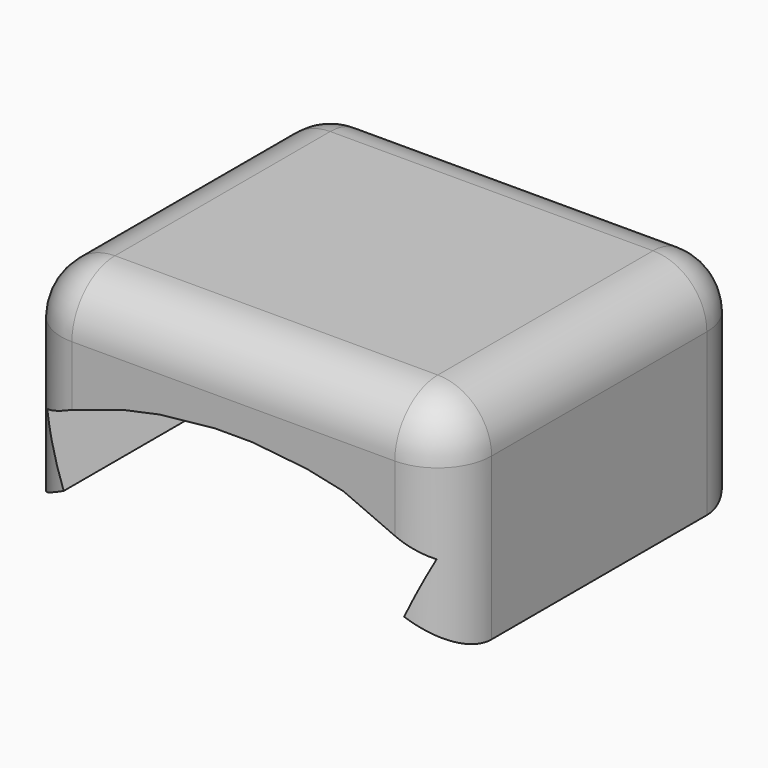
from build123d import *

# Parameters (mm, degrees)
F1_DEPTH = 7
F2_R     = 1


with BuildPart() as f1:
    # F0 (on Front) → F1 (new body)
    with BuildSketch(Plane.XZ):
        with BuildLine():
            ThreePointArc((3.163336, 6.244462), (3.590379, 6.009091), (4, 5.744563))
            Line((4, 5.744563), (4, 9.744563))
            Line((4, 9.744563), (-4, 9.744563))
            Line((-4, 9.744563), (-4, 5.744563))
            ThreePointArc((-4, 5.744563), (-3.590379, 6.009091), (-3.163336, 6.244462))
            Line((-3.163336, 6.244462), (-3.65142, 7.340716))
            Line((-3.65142, 7.340716), (-3.011938, 7.625432))
            Line((-3.011938, 7.625432), (-2.045407, 7.939477))
            Line((-2.045407, 7.939477), (-1.360704, 8.085015))
            Line((-1.360704, 8.085015), (-0.35, 8.191245))
            Line((-0.35, 8.191245), (0.35, 8.191245))
            Line((0.35, 8.191245), (1.360704, 8.085015))
            Line((1.360704, 8.085015), (2.045407, 7.939477))
            Line((2.045407, 7.939477), (2.971265, 7.534078))
            Line((2.971265, 7.534078), (3.610747, 7.249362))
            Line((3.610747, 7.249362), (3.163336, 6.244462))
        make_face()
    extrude(amount=F1_DEPTH)

    # F2
    f2_edges = [f1.edges().sort_by_distance(p)[0] for p in [
        (-4, -7, 7.744563),
        (4, -7, 7.744563),
        (4, 0, 7.744563),
        (-4, 0, 7.744563),
        (4, -3.5, 9.744563),
        (-4, -3.5, 9.744563),
        (0, 0, 9.744563),
        (0, -7, 9.744563),
    ]]
    fillet(f2_edges, radius=F2_R)


solid = f1.part
